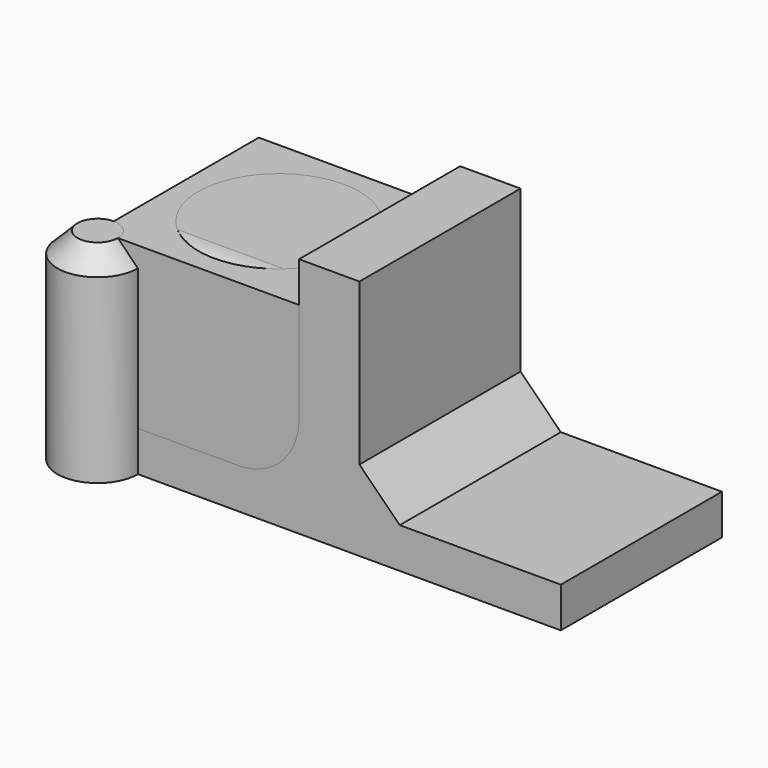
from build123d import *

# Parameters (mm, degrees)
BOX_W             = 10
BOX_H             = 10
BOX_DEPTH         = 10
FILLET_R          = 2
BOX001_W          = 10
BOX001_H          = 10
BOX001_DEPTH      = 10
CHAMFER_SIZE      = 2
CYLINDER_R        = 2
CYLINDER_DEPTH    = 10
BOX002_W          = 10
BOX002_H          = 10
BOX002_DEPTH      = 10
CHAMFER001_SIZE   = 2
CYLINDER001_R     = 2
CYLINDER001_DEPTH = 10
FILLET001_R       = 2
CYLINDER002_R     = 2
CYLINDER002_DEPTH = 10
CHAMFER002_SIZE   = 1
BOX005_W          = 10
BOX005_H          = 10
BOX005_DEPTH      = 10
BOX004_W          = 10
BOX004_H          = 10
BOX004_DEPTH      = 10
BOX003_W          = 23
BOX003_H          = 10
BOX003_DEPTH      = 12
CHAMFER003_SIZE   = 2
FILLET002_R       = 3


with BuildPart() as fillet_body:
    # Box → Box (new body)
    with BuildSketch(Plane.XY):
        with Locations((5, 5)):
            Rectangle(BOX_W, BOX_H)
    extrude(amount=BOX_DEPTH)

    # Fillet
    fillet_edges = [fillet_body.edges().sort_by_distance(p)[0] for p in [
        (10, 0, 5),
        (10, 5, 10),
        (5, 0, 10),
    ]]
    fillet(fillet_edges, radius=FILLET_R)


with BuildPart() as chamfer_body:
    # Box001 → Box001 (new body)
    with BuildSketch(Plane.XY):
        with Locations((5, 5)):
            Rectangle(BOX001_W, BOX001_H)
    extrude(amount=BOX001_DEPTH)

    # Chamfer
    chamfer_edges = [chamfer_body.edges().sort_by_distance(p)[0] for p in [
        (10, 0, 5),
        (10, 5, 10),
        (5, 0, 10),
    ]]
    chamfer(chamfer_edges, length=CHAMFER_SIZE)


with BuildPart() as cilindro:
    # Cylinder → Cylinder (new body)
    with BuildSketch(Plane(origin=(5, 5, 0), x_dir=(1, 0, 0), z_dir=(0, 0, 1))):
        Circle(CYLINDER_R)
    extrude(amount=CYLINDER_DEPTH)


with BuildPart() as chamfer001:
    # Box002 → Box002 (new body)
    with BuildSketch(Plane.XY):
        with Locations((5, 5)):
            Rectangle(BOX002_W, BOX002_H)
    extrude(amount=BOX002_DEPTH)

    # Cut: cut Cilindro
    add(cilindro.part, mode=Mode.SUBTRACT)

    # Chamfer001
    chamfer001_edges = [chamfer001.edges().sort_by_distance(p)[0] for p in [
        (3, 5, 10),
    ]]
    chamfer(chamfer001_edges, length=CHAMFER001_SIZE)


with BuildPart() as fillet001:
    # Cylinder001 → Cylinder001 (new body)
    with BuildSketch(Plane.XY):
        Circle(CYLINDER001_R)
    extrude(amount=CYLINDER001_DEPTH)

    # Fillet001
    fillet001_edges = [fillet001.edges().sort_by_distance(p)[0] for p in [
        (-2, 0, 10),
    ]]
    fillet(fillet001_edges, radius=FILLET001_R)


with BuildPart() as chamfer002:
    # Cylinder002 → Cylinder002 (new body)
    with BuildSketch(Plane.XY):
        Circle(CYLINDER002_R)
    extrude(amount=CYLINDER002_DEPTH)

    # Chamfer002
    chamfer002_edges = [chamfer002.edges().sort_by_distance(p)[0] for p in [
        (-2, 0, 10),
    ]]
    chamfer(chamfer002_edges, length=CHAMFER002_SIZE)


with BuildPart() as cubo005:
    # Box005 → Box005 (new body)
    with BuildSketch(Plane(origin=(13, 0, 2), x_dir=(1, 0, 0), z_dir=(0, 0, 1))):
        with Locations((5, 5)):
            Rectangle(BOX005_W, BOX005_H)
    extrude(amount=BOX005_DEPTH)


with BuildPart() as fusion:
    # Box004 → Box004 (new body)
    with BuildSketch(Plane.XY.offset(2)):
        with Locations((5, 5)):
            Rectangle(BOX004_W, BOX004_H)
    extrude(amount=BOX004_DEPTH)

    # Fusion: union Cubo005
    add(cubo005.part)


with BuildPart() as fillet002:
    # Box003 → Box003 (new body)
    with BuildSketch(Plane.XY):
        with Locations((11.5, 5)):
            Rectangle(BOX003_W, BOX003_H)
    extrude(amount=BOX003_DEPTH)

    # Cut001: cut Fusion
    add(fusion.part, mode=Mode.SUBTRACT)

    # Chamfer003
    chamfer003_edges = [fillet002.edges().sort_by_distance(p)[0] for p in [
        (13, 5, 2),
    ]]
    chamfer(chamfer003_edges, length=CHAMFER003_SIZE)

    # Fillet002
    fillet002_edges = [fillet002.edges().sort_by_distance(p)[0] for p in [
        (10, 5, 2),
    ]]
    fillet(fillet002_edges, radius=FILLET002_R)


solid = Compound([fillet_body.part, chamfer_body.part, chamfer001.part, fillet001.part, chamfer002.part, fillet002.part])
